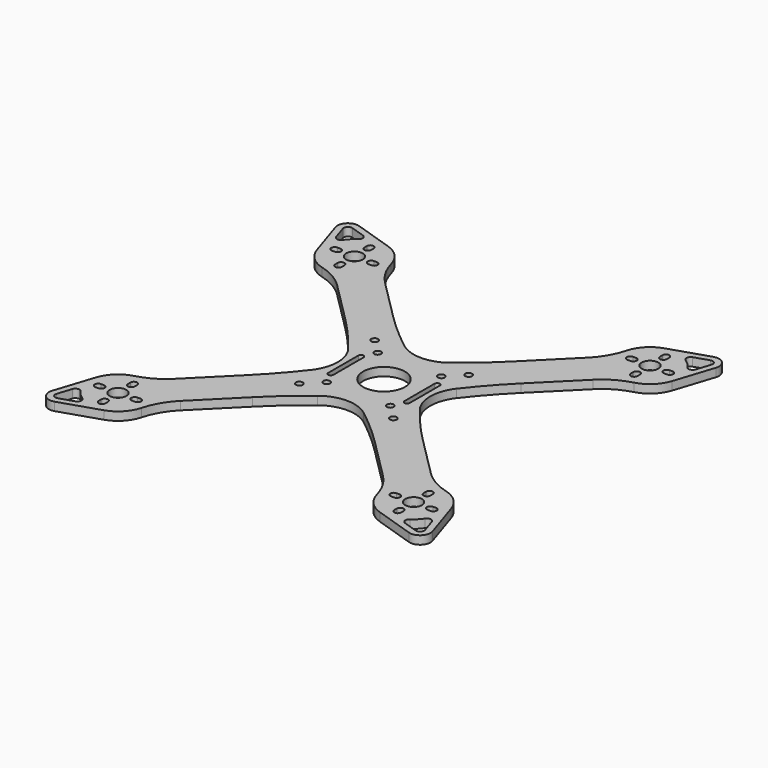
from build123d import *

# Parameters (mm, degrees)
F0_R      = 1.625
F0_R_2    = 4
F1_DEPTH  = 4
F3_DEPTH  = 25
F5_DEPTH  = 25
F6_COUNT  = 4
F7_R      = 18
F9_DEPTH  = 25
F10_R     = 10
F11_DEPTH = 25


with BuildPart() as f1:
    # F0 (on Top) → F1 (new body)
    with BuildSketch(Plane.XY):
        with BuildLine():
            Line((-66.0843108582, 84.9794105771), (-84.7249048846, 91.0232714576))
            ThreePointArc((-84.7249048846, 91.0232714576), (-89.8025612107, 89.8025612107), (-91.0232714576, 84.7249048846))
            Line((-91.0232714576, 84.7249048846), (-84.9794105771, 66.0843108582))
            ThreePointArc((-84.9794105771, 66.0843108582), (-81.0463661443, 59.8399121366), (-74.611563652, 56.2267873411))
            ThreePointArc((-74.611563652, 56.2267873411), (-67.3966587617, 53.230132893), (-61.2001312829, 48.4722092216))
            Line((-61.2001312829, 48.4722092216), (-42.0330833994, 29.3051613381))
            ThreePointArc((-42.0330833994, 29.3051613381), (-29.2941539893, 15.2450088728), (-18, 0))
            Line((-18, 0), (0, 0))
            Line((0, 0), (0, 18))
            ThreePointArc((0, 18), (-15.2450088728, 29.2941539893), (-29.3051613381, 42.0330833994))
            Line((-29.3051613381, 42.0330833994), (-48.4722092216, 61.2001312829))
            ThreePointArc((-48.4722092216, 61.2001312829), (-53.230132893, 67.3966587617), (-56.2267873411, 74.611563652))
            ThreePointArc((-56.2267873411, 74.611563652), (-59.8399121366, 81.0463661443), (-66.0843108582, 84.9794105771))
        make_face()
        with Locations((-15.25, 15.25)):
            Circle(F0_R, mode=Mode.SUBTRACT)
        with Locations((-22.5, 22.5)):
            Circle(F0_R, mode=Mode.SUBTRACT)
        with Locations((-70.7106781187, 70.7106781187)):
            Circle(F0_R_2, mode=Mode.SUBTRACT)
    extrude(amount=F1_DEPTH)

    # F2 (on face) → F3 (cut)
    with BuildSketch(Plane.XY.offset(4)):
        with BuildLine():
            ThreePointArc((-72.3356781187, 78.7106781187), (-70.7106781187, 77.0856781187), (-69.0856781187, 78.7106781187))
            Line((-69.0856781187, 78.7106781187), (-69.0856781187, 80.2106781187))
            ThreePointArc((-69.0856781187, 80.2106781187), (-70.7106781187, 81.8356781187), (-72.3356781187, 80.2106781187))
            Line((-72.3356781187, 80.2106781187), (-72.3356781187, 78.7106781187))
        make_face()
        with BuildLine():
            ThreePointArc((-80.2106781187, 72.3356781187), (-81.8356781187, 70.7106781187), (-80.2106781187, 69.0856781187))
            Line((-80.2106781187, 69.0856781187), (-78.7106781187, 69.0856781187))
            ThreePointArc((-78.7106781187, 69.0856781187), (-77.0856781187, 70.7106781187), (-78.7106781187, 72.3356781187))
            Line((-78.7106781187, 72.3356781187), (-80.2106781187, 72.3356781187))
        make_face()
        with BuildLine():
            ThreePointArc((-72.3356781187, 61.2106781187), (-70.7106781187, 59.5856781187), (-69.0856781187, 61.2106781187))
            Line((-69.0856781187, 61.2106781187), (-69.0856781187, 62.7106781187))
            ThreePointArc((-69.0856781187, 62.7106781187), (-70.7106781187, 64.3356781187), (-72.3356781187, 62.7106781187))
            Line((-72.3356781187, 62.7106781187), (-72.3356781187, 61.2106781187))
        make_face()
        with BuildLine():
            ThreePointArc((-61.2106781187, 69.0856781187), (-59.5856781187, 70.7106781187), (-61.2106781187, 72.3356781187))
            Line((-61.2106781187, 72.3356781187), (-62.7106781187, 72.3356781187))
            ThreePointArc((-62.7106781187, 72.3356781187), (-64.3356781187, 70.7106781187), (-62.7106781187, 69.0856781187))
            Line((-62.7106781187, 69.0856781187), (-61.2106781187, 69.0856781187))
        make_face()
    extrude(amount=-F3_DEPTH, mode=Mode.SUBTRACT)

    # F4 (on face) → F5 (cut)
    with BuildSketch(Plane.XY.offset(4)):
        with BuildLine():
            ThreePointArc((-82.4047983856, 78.4079212084), (-80.6101730553, 80.6101730553), (-78.4079212084, 82.4047983856))
            ThreePointArc((-78.4079212084, 82.4047983856), (-77.5255357086, 84.3431725019), (-78.890678396, 85.9778846563))
            Line((-78.890678396, 85.9778846563), (-85.6501783367, 88.1695249659))
            ThreePointArc((-85.6501783367, 88.1695249659), (-87.6812408671, 87.6812408671), (-88.1695249659, 85.6501783367))
            Line((-88.1695249659, 85.6501783367), (-85.9778846563, 78.890678396))
            ThreePointArc((-85.9778846563, 78.890678396), (-84.3431725019, 77.5255357086), (-82.4047983856, 78.4079212084))
        make_face()
    extrude(amount=-F5_DEPTH, mode=Mode.SUBTRACT)

    # F6: F1 ×4 about axis
    f6_axis = Axis((0, 0, 2), (0, 0, -1))


with BuildPart() as f1_1:
    add(f1.part)
    for i in range(1, F6_COUNT):
        add(f1.part.rotate(f6_axis, i * 360 / F6_COUNT))

    # F7
    f7_edges = [f1_1.edges().sort_by_distance(p)[0] for p in [
        (-18, 0, 2),
        (0, 18, 2),
        (18, 0, 2),
        (0, -18, 2),
    ]]
    fillet(f7_edges, radius=F7_R)

    # F8 (on face) → F9 (cut)
    with BuildSketch(Plane.XY.offset(4)):
        with BuildLine():
            ThreePointArc((-17, 9), (-18.25, 10.25), (-19.5, 9))
            Line((-19.5, 9), (-19.5, -9))
            ThreePointArc((-19.5, -9), (-18.25, -10.25), (-17, -9))
            Line((-17, -9), (-17, 9))
        make_face()
        with BuildLine():
            Line((19.5, -9), (19.5, 9))
            ThreePointArc((19.5, 9), (18.25, 10.25), (17, 9))
            Line((17, 9), (17, -9))
            ThreePointArc((17, -9), (18.25, -10.25), (19.5, -9))
        make_face()
    extrude(amount=-F9_DEPTH, mode=Mode.SUBTRACT)

    # F10 (on face) → F11 (cut)
    with BuildSketch(Plane.XY.offset(4)):
        Circle(F10_R)
    extrude(amount=-F11_DEPTH, mode=Mode.SUBTRACT)


solid = f1_1.part
